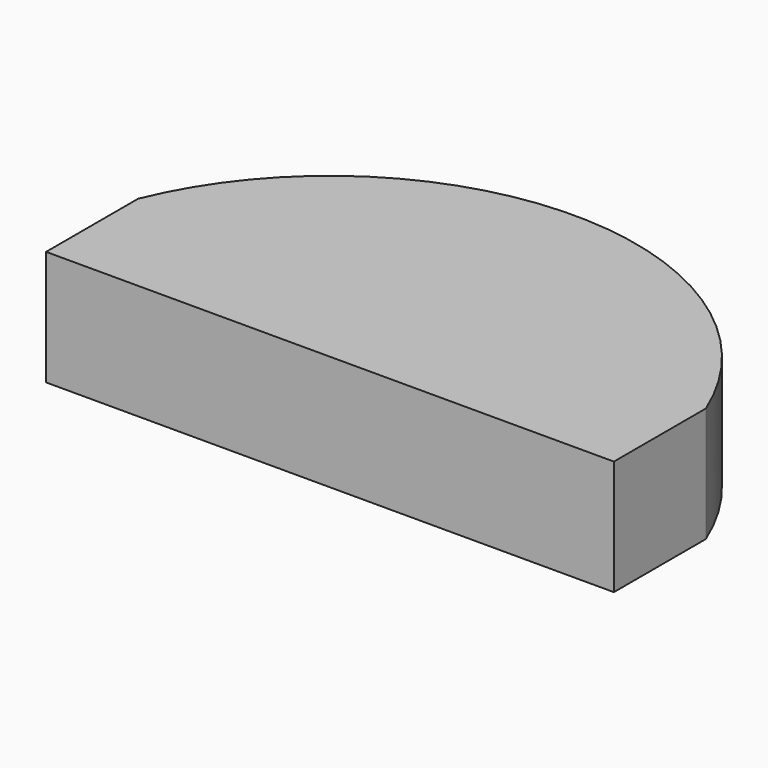
from build123d import *

# Parameters (mm, degrees)
F1_DEPTH = 3


with BuildPart() as f1:
    # F0 (on Top) → F1 (new body)
    with BuildSketch(Plane.XY):
        with BuildLine():
            Line((7.408299, 0), (7.408299, 2.999994))
            ThreePointArc((7.408299, 2.999994), (3e-06, 7.980541), (-7.408297, 3))
            Line((-7.408297, 3), (-7.408297, 0))
            Line((-7.408297, 0), (7.408299, 0))
        make_face()
    extrude(amount=F1_DEPTH)


solid = f1.part
